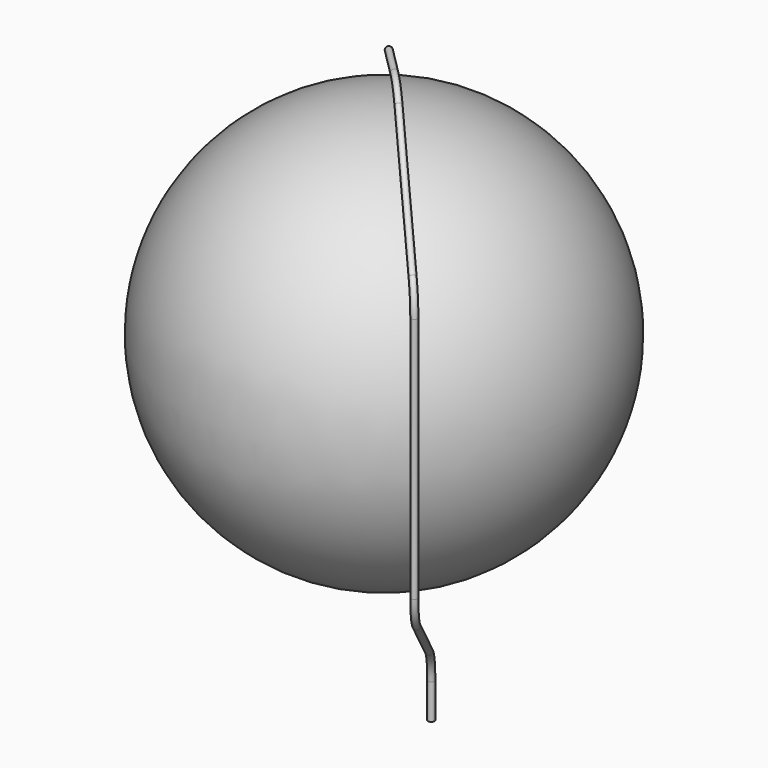
from build123d import *

# Parameters (mm, degrees)
F11_R = 5.70992
F19_T = -1.016


with BuildPart() as f12:
    # F7 (on line) → F12 (revolve)
    with BuildSketch(Plane.XY.offset(315.7474)):
        with BuildLine():
            Line((-185.79338, 258.16052), (-550.53611, 258.16052))
            ThreePointArc((-550.53611, 258.16052), (-185.79338, -106.58221), (178.94935, 258.16052))
            Line((178.94935, 258.16052), (-185.79338, 258.16052))
        make_face()
    revolve(axis=Axis((-185.79338, 258.16052, 315.7474), (1, 0, 0)))


with BuildPart() as f18:
    # F18: sweep along a path in F16, F17, F14
    with BuildLine(Plane(origin=(54.5963177285, 35.4326694997, 0), x_dir=(-0.5443948477, 0.8388290945, 0), z_dir=(0.8388290945, 0.5443948477, 0))) as f18_path:
        Line((181.0705559581, -222.04934), (181.0705559581, -158.7491959035))
        ThreePointArc((181.0705559581, -158.7491959035), (172.9543306693, -124.5287397249), (150.3346078985, -97.5980717834))
    with BuildLine(Plane(origin=(54.5963177285, 35.4326694997, 0), x_dir=(-0.5443948477, 0.8388290945, 0), z_dir=(0.8388290945, 0.5443948477, 0))) as f18_path_2:
        Line((150.3346078985, -97.5980717834), (-29.2497615402, 35.9175948101))
        ThreePointArc((-29.2497615402, 35.9175948101), (-51.869484311, 62.8482627517), (-59.9857095998, 97.0687189303))
        Line((-59.9857095998, 97.0687189303), (-59.9857095998, 315.7474))
    with BuildLine(Plane(origin=(36.18357, 36.18357, 0), x_dir=(0.7071067812, -0.7071067812, 0), z_dir=(-0.7071067812, -0.7071067812, 0))) as f18_path_3:
        Line((72.2219901255, 315.7474), (72.2219901255, 541.1628635204))
        ThreePointArc((72.2219901255, 541.1628635204), (66.4216105029, 570.3233410667), (49.9035268519, 595.0444002469))
        Line((49.9035268519, 595.0444002469), (-129.9659496276, 774.9138767264))
        ThreePointArc((-129.9659496276, 774.9138767264), (-154.6870088078, 791.4319603774), (-183.847486354, 797.23234))
        Line((-183.847486354, 797.23234), (-253.8844129012, 797.23234))
    # F11 (on line) → F18 (sweep)
    with BuildSketch(Plane(origin=(0, 0, -222.04934), x_dir=(1, 0, 0), z_dir=(0, 0, -1))):
        with Locations((-43.97756, -187.31992)):
            Circle(F11_R)
    sweep(path=f18_path.line + f18_path_2.line + f18_path_3.line)

    # F19
    f19_openings = [f18.faces().sort_by_distance(p)[0] for p in [
        (-143.33982, 215.70696, 797.23234),
    ]]
    offset(amount=F19_T, openings=f19_openings)


solid = Compound([f12.part, f18.part])
